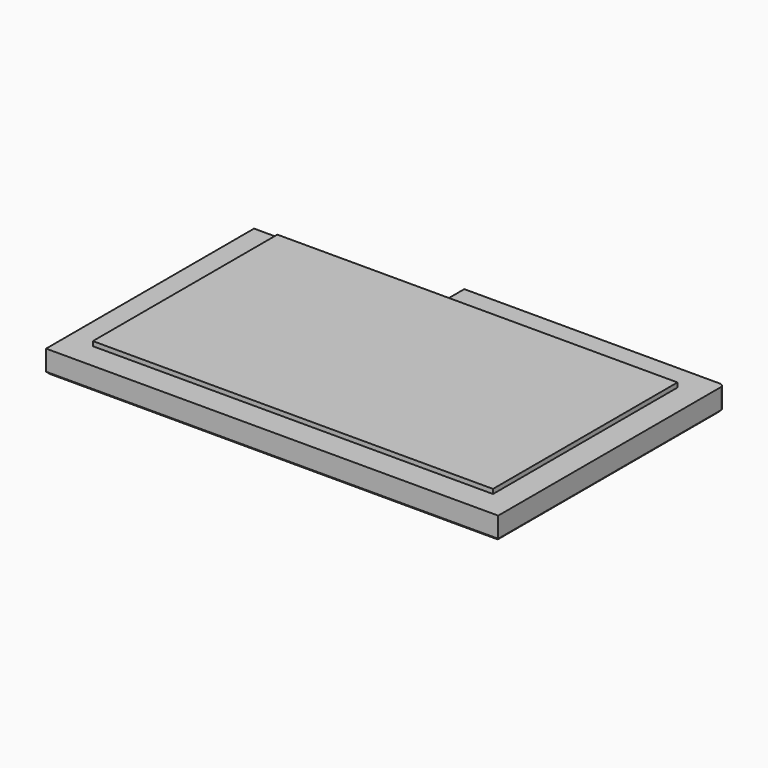
from build123d import *

# Parameters (mm, degrees)
SKETCH_W        = 200
SKETCH_H        = 125
PAD_DEPTH       = 10
SKETCH001_W     = 177
SKETCH001_H     = 102
PAD001_DEPTH    = 2
POCKET_DEPTH    = 120
SKETCH003_W     = 85
SKETCH003_H     = 10
POCKET001_DEPTH = 12.001
FILLET_R        = 2
CHAMFER_SIZE    = 1
CHAMFER001_SIZE = 1
CHAMFER002_SIZE = 1


with BuildPart() as part:
    # Sketch → Pad (new body)
    with BuildSketch(Plane.XY):
        Rectangle(SKETCH_W, SKETCH_H)
    extrude(amount=PAD_DEPTH)

    # Sketch001 (on Face6 of Pad) → Pad001 (join)
    with BuildSketch(Plane.XY.offset(10)):
        Rectangle(SKETCH001_W, SKETCH001_H)
    extrude(amount=PAD001_DEPTH)

    # Sketch002 (on Face2 of Pad001) → Pocket (cut)
    with BuildSketch(Plane(origin=(-100, 0, 0), x_dir=(0, -1, 0), z_dir=(-1, 0, 0))):
        Polygon((-60.5, 0), (-56.964466, 3.535534), (-53.428932, 0), (-56.964466, -3.535534), align=None)
    extrude(amount=-POCKET_DEPTH, mode=Mode.SUBTRACT)

    # Sketch003 (on Face4 of Pocket) → Pocket001 (cut, through all)
    with BuildSketch(Plane(origin=(0, 0, 0), x_dir=(1, 0, 0), z_dir=(0, 0, -1))):
        with Locations((-57.5, -57.5)):
            Rectangle(SKETCH003_W, SKETCH003_H)
    extrude(amount=-POCKET001_DEPTH, mode=Mode.SUBTRACT)

    # Fillet
    fillet_edges = [part.edges().sort_by_distance(p)[0] for p in [
        (100, 62.5, 5),
    ]]
    fillet(fillet_edges, radius=FILLET_R)

    # Chamfer
    chamfer_edges = [part.edges().sort_by_distance(p)[0] for p in [
        (100, -1, 0),
    ]]
    chamfer(chamfer_edges, length=CHAMFER_SIZE)

    # Chamfer001
    chamfer001_edges = [part.edges().sort_by_distance(p)[0] for p in [
        (-100, -5, 0),
    ]]
    chamfer(chamfer001_edges, length=CHAMFER001_SIZE)

    # Chamfer002
    chamfer002_edges = [part.edges().sort_by_distance(p)[0] for p in [
        (0, -62.5, 0),
    ]]
    chamfer(chamfer002_edges, length=CHAMFER002_SIZE)


solid = part.part
